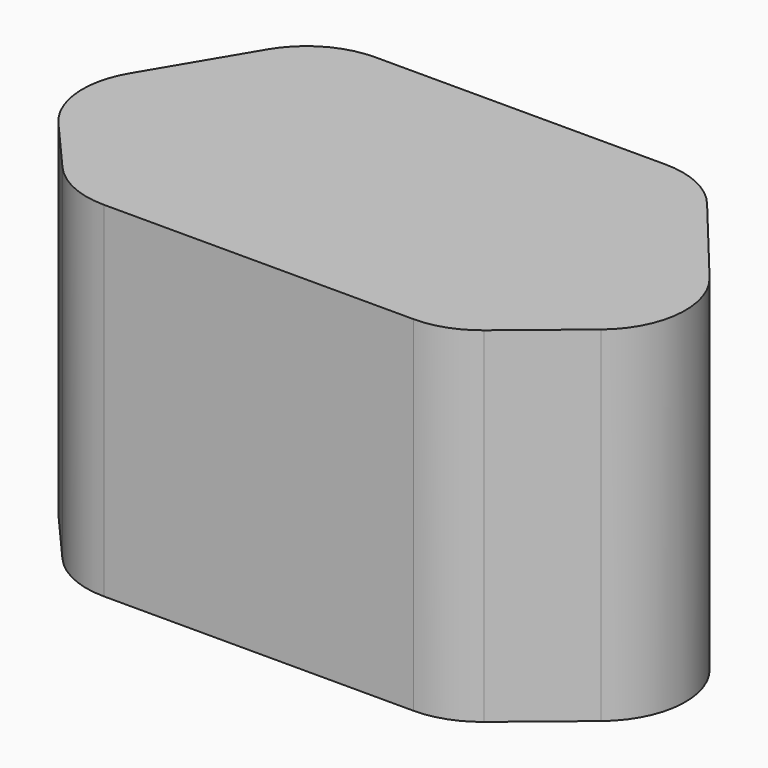
from build123d import *

# Parameters (mm, degrees)
F1_DEPTH = 50.8


with BuildPart() as f1:
    # F0 (on Top) → F1 (new body)
    with BuildSketch(Plane.XY):
        with BuildLine():
            Line((-34.573272, 22.455608), (-43.223512, 7.902216))
            ThreePointArc((-43.223512, 7.902216), (-44.954669, 0.268443), (-41.880949, -6.93042))
            Line((-41.880949, -6.93042), (-34.677799, -15.196177))
            ThreePointArc((-34.677799, -15.196177), (-30.362733, -18.412203), (-25.103225, -19.552464))
            Line((-25.103225, -19.552464), (20.536096, -19.552464))
            ThreePointArc((20.536096, -19.552464), (24.833093, -18.80344), (28.623231, -16.644718))
            Line((28.623231, -16.644718), (38.985124, -8.087135))
            ThreePointArc((38.985124, -8.087135), (43.540626, 0.499418), (40.690243, 9.792254))
            Line((40.690243, 9.792254), (28.912036, 24.05382))
            ThreePointArc((28.912036, 24.05382), (24.531961, 27.455736), (19.119781, 28.666684))
            Line((19.119781, 28.666684), (-23.656136, 28.666684))
            ThreePointArc((-23.656136, 28.666684), (-29.93629, 27.005238), (-34.573272, 22.455608))
        make_face()
    extrude(amount=F1_DEPTH)


solid = f1.part
